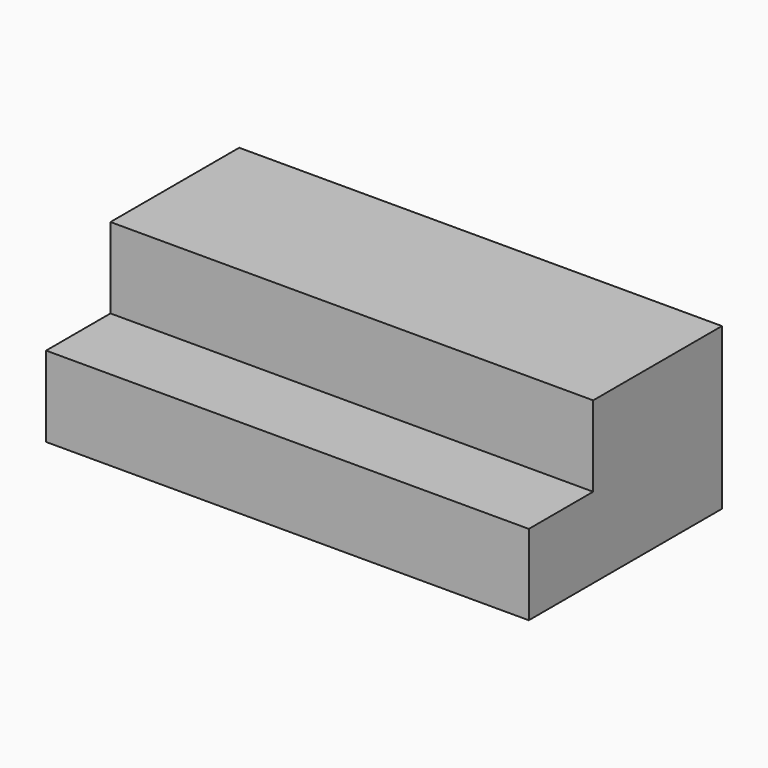
from build123d import *

# Parameters (mm, degrees)
F1_DEPTH = 76.2
F2_W     = 25.4
F2_H     = 25.4
F3_DEPTH = 152.4


with BuildPart() as f1:
    # F0 (on Front) → F1 (new body)
    with BuildSketch(Plane.XZ):
        Polygon((-61.878238, -13.453776), (-61.878238, -38.853776), (90.521762, -38.853776), (90.521762, -13.453776), (90.521762, 11.946224), (-61.878238, 11.946224), align=None)
    extrude(amount=F1_DEPTH)

    # F2 (on face) → F3 (cut)
    with BuildSketch(Plane.YZ.offset(90.521762)):
        with Locations((-63.5, -0.753776)):
            Rectangle(F2_W, F2_H)
    extrude(amount=-F3_DEPTH, mode=Mode.SUBTRACT)


solid = f1.part
